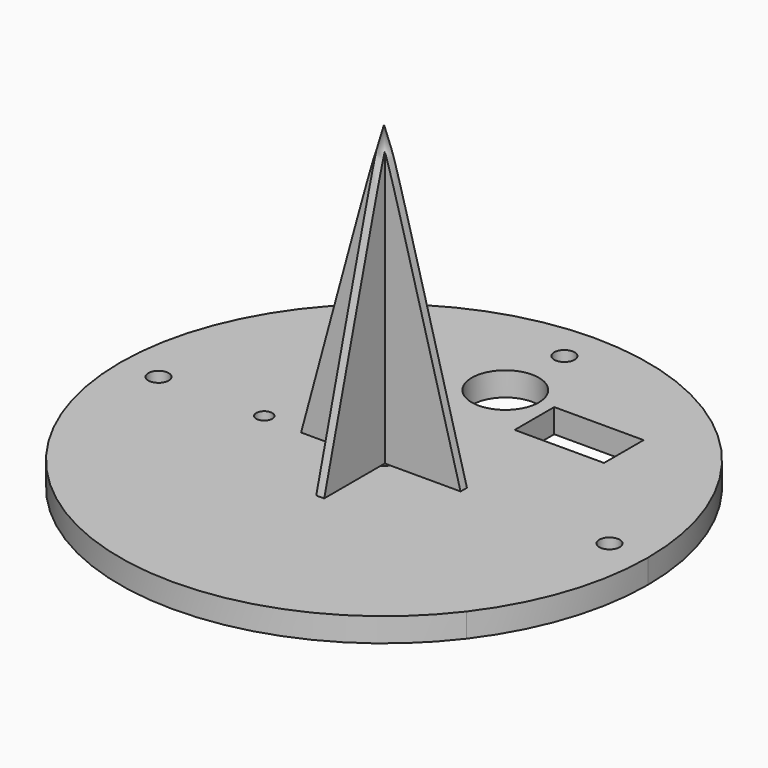
from build123d import *

# Parameters (mm, degrees)
F0_R     = 1
F0_R_2   = 1.25
F0_R_3   = 4.2
F0_R_4   = 1.275
F0_W     = 11.2
F0_H     = 6.2
F1_DEPTH = 3
F4_W     = 10.83598
F4_H     = 10.83598
F5_DEPTH = 40


with BuildPart() as f1:
    # F0 (on Top) → F1 (new body)
    with BuildSketch(Plane.XY):
        with BuildLine():
            ThreePointArc((26.336773, -20), (31.34153, -10.551499), (33.070011, 0))
            ThreePointArc((33.070011, 0), (14.700772, 29.622845), (-20, 26.336773))
            Line((-20, 26.336773), (-20, -20))
            Line((-20, -20), (26.336773, -20))
        make_face()
        with Locations((-15, 3e-06)):
            Circle(F0_R, mode=Mode.SUBTRACT)
        Circle(F0_R_2, mode=Mode.SUBTRACT)
        with Locations((0, 19)):
            Circle(F0_R_3, mode=Mode.SUBTRACT)
        with Locations((0, 28.25)):
            Circle(F0_R_4, mode=Mode.SUBTRACT)
        with Locations((11.580758, 16.082448)):
            Rectangle(F0_W, F0_H, mode=Mode.SUBTRACT)
        with Locations((28.25, 0)):
            Circle(F0_R_4, mode=Mode.SUBTRACT)
        with BuildLine():
            Line((-20, -20), (-20, 26.336773))
            ThreePointArc((-20, 26.336773), (-23.384029, -23.384029), (26.336773, -20))
            Line((26.336773, -20), (-20, -20))
        make_face()
        with Locations((-28.25, 0)):
            Circle(F0_R_4, mode=Mode.SUBTRACT)
    extrude(amount=-F1_DEPTH)

    # F2 (on Right) → F3 (revolve)
    with BuildSketch(Plane.YZ):
        Polygon((10, 0), (0, 37), (0, 0), align=None)
    revolve(axis=Axis((0, 0, 18.5), (0, 0, -1)))

    # F4 (on Top) → F5 (cut)
    with BuildSketch(Plane.XY):
        with Locations((-5.91799, 5.91799)):
            Rectangle(F4_W, F4_H)
        with Locations((5.91799, 5.91799)):
            Rectangle(F4_W, F4_H)
        with Locations((5.91799, -5.91799)):
            Rectangle(F4_W, F4_H)
        with Locations((-5.91799, -5.91799)):
            Rectangle(F4_W, F4_H)
    extrude(amount=F5_DEPTH, mode=Mode.SUBTRACT)


solid = f1.part
